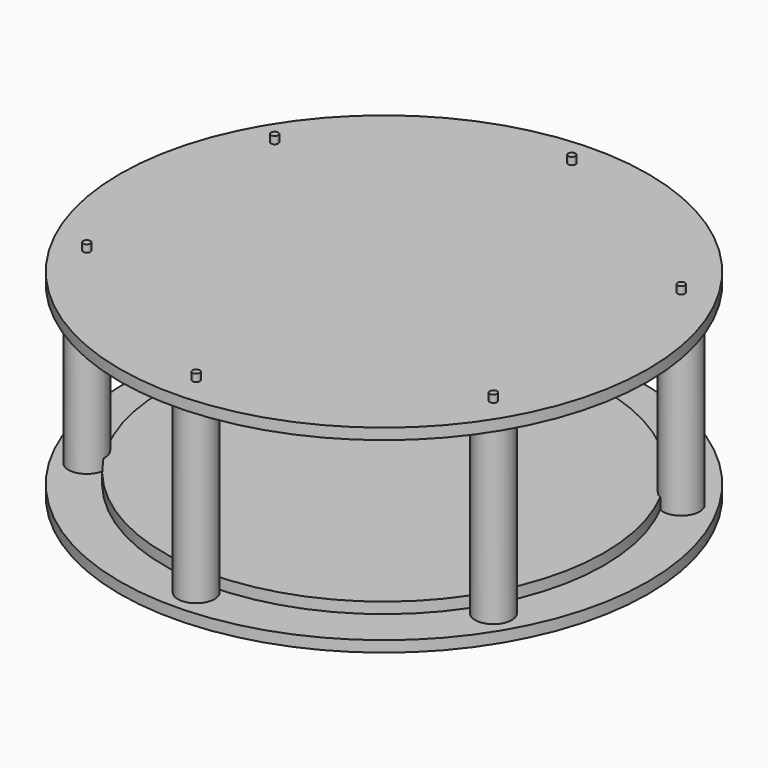
from build123d import *

# Parameters (mm, degrees)
F2_R           = 457.2
F2_R_2         = 31.75
F2_R_3         = 15.875
F2_R_4         = 6.35
F3_DEPTH       = 19.05
F4_DEPTH       = 304.8
F5_R           = 381
F6_DEPTH       = 19.05
F10_DEPTH      = 336.55
F10_DEPTH_BACK = 31.75


with BuildPart() as f3:
    # F2 (on Top) → F3 (new body)
    with BuildSketch(Plane.XY):
        Circle(F2_R)
        with Locations((-351.952724098, -203.2)):
            Circle(F2_R_2, mode=Mode.SUBTRACT)
        with Locations((0, -406.4)):
            Circle(F2_R_2, mode=Mode.SUBTRACT)
        with Locations((351.952724098, -203.2)):
            Circle(F2_R_2, mode=Mode.SUBTRACT)
        with Locations((-351.952724098, 203.2)):
            Circle(F2_R_2, mode=Mode.SUBTRACT)
        with Locations((351.952724098, 203.2)):
            Circle(F2_R_2, mode=Mode.SUBTRACT)
        with Locations((0, 406.4)):
            Circle(F2_R_2, mode=Mode.SUBTRACT)
        with Locations((351.952724098, 203.2)):
            Circle(F2_R_2)
        with Locations((351.952724098, 203.2)):
            Circle(F2_R_3, mode=Mode.SUBTRACT)
        with Locations((351.952724098, 203.2)):
            Circle(F2_R_3)
        with Locations((351.952724098, 203.2)):
            Circle(F2_R_4, mode=Mode.SUBTRACT)
        with Locations((351.952724098, -203.2)):
            Circle(F2_R_2)
        with Locations((351.952724098, -203.2)):
            Circle(F2_R_3, mode=Mode.SUBTRACT)
        with Locations((351.952724098, -203.2)):
            Circle(F2_R_3)
        with Locations((351.952724098, -203.2)):
            Circle(F2_R_4, mode=Mode.SUBTRACT)
        with Locations((0, 406.4)):
            Circle(F2_R_2)
        with Locations((0, 406.4)):
            Circle(F2_R_3, mode=Mode.SUBTRACT)
        with Locations((0, 406.4)):
            Circle(F2_R_3)
        with Locations((0, 406.4)):
            Circle(F2_R_4, mode=Mode.SUBTRACT)
        with Locations((-351.952724098, 203.2)):
            Circle(F2_R_2)
        with Locations((-351.952724098, 203.2)):
            Circle(F2_R_3, mode=Mode.SUBTRACT)
        with Locations((-351.952724098, 203.2)):
            Circle(F2_R_3)
        with Locations((-351.952724098, 203.2)):
            Circle(F2_R_4, mode=Mode.SUBTRACT)
        with Locations((-351.952724098, -203.2)):
            Circle(F2_R_2)
        with Locations((-351.952724098, -203.2)):
            Circle(F2_R_3, mode=Mode.SUBTRACT)
        with Locations((-351.952724098, -203.2)):
            Circle(F2_R_3)
        with Locations((-351.952724098, -203.2)):
            Circle(F2_R_4, mode=Mode.SUBTRACT)
        with Locations((0, -406.4)):
            Circle(F2_R_2)
        with Locations((0, -406.4)):
            Circle(F2_R_3, mode=Mode.SUBTRACT)
        with Locations((0, -406.4)):
            Circle(F2_R_3)
        with Locations((0, -406.4)):
            Circle(F2_R_4, mode=Mode.SUBTRACT)
    extrude(amount=-F3_DEPTH)


with BuildPart() as f4:
    # F2 (on Top) → F4 (new body)
    with BuildSketch(Plane.XY):
        with Locations((351.952724098, -203.2)):
            Circle(F2_R_2)
        with Locations((351.952724098, -203.2)):
            Circle(F2_R_3, mode=Mode.SUBTRACT)
    extrude(amount=F4_DEPTH)


with BuildPart() as f4b:
    # F2 (on Top) → F4, piece 2 (new body)
    with BuildSketch(Plane.XY):
        with Locations((0, -406.4)):
            Circle(F2_R_2)
        with Locations((0, -406.4)):
            Circle(F2_R_3, mode=Mode.SUBTRACT)
    extrude(amount=F4_DEPTH)


with BuildPart() as f4c:
    # F2 (on Top) → F4, piece 3 (new body)
    with BuildSketch(Plane.XY):
        with Locations((-351.952724098, -203.2)):
            Circle(F2_R_2)
        with Locations((-351.952724098, -203.2)):
            Circle(F2_R_3, mode=Mode.SUBTRACT)
    extrude(amount=F4_DEPTH)


with BuildPart() as f4d:
    # F2 (on Top) → F4, piece 4 (new body)
    with BuildSketch(Plane.XY):
        with Locations((-351.952724098, 203.2)):
            Circle(F2_R_2)
        with Locations((-351.952724098, 203.2)):
            Circle(F2_R_3, mode=Mode.SUBTRACT)
    extrude(amount=F4_DEPTH)


with BuildPart() as f4e:
    # F2 (on Top) → F4, piece 5 (new body)
    with BuildSketch(Plane.XY):
        with Locations((0, 406.4)):
            Circle(F2_R_2)
        with Locations((0, 406.4)):
            Circle(F2_R_3, mode=Mode.SUBTRACT)
    extrude(amount=F4_DEPTH)


with BuildPart() as f4f:
    # F2 (on Top) → F4, piece 6 (new body)
    with BuildSketch(Plane.XY):
        with Locations((351.952724098, 203.2)):
            Circle(F2_R_2)
        with Locations((351.952724098, 203.2)):
            Circle(F2_R_3, mode=Mode.SUBTRACT)
    extrude(amount=F4_DEPTH)


with BuildPart() as f6:
    # F5 (on face) → F6 (new body)
    with BuildSketch(Plane.XY):
        Circle(F5_R)
    extrude(amount=F6_DEPTH)


with BuildPart() as f8_1:
    # F8: instance of F3
    add(f3.part.mirror(Plane.XY.offset(152.4)))


with BuildPart() as f8_2:
    # F8: instance of F6
    add(f6.part.mirror(Plane.XY.offset(152.4)))


with BuildPart() as f4c_1:
    add(f4c.part)

    # F9: cut F6, F8_2
    add(f6.part, mode=Mode.SUBTRACT)
    add(f8_2.part, mode=Mode.SUBTRACT)


with BuildPart() as f4d_1:
    add(f4d.part)

    # F9: cut F6, F8_2
    add(f6.part, mode=Mode.SUBTRACT)
    add(f8_2.part, mode=Mode.SUBTRACT)


with BuildPart() as f4e_1:
    add(f4e.part)

    # F9: cut F6, F8_2
    add(f6.part, mode=Mode.SUBTRACT)
    add(f8_2.part, mode=Mode.SUBTRACT)


with BuildPart() as f4f_1:
    add(f4f.part)

    # F9: cut F6, F8_2
    add(f6.part, mode=Mode.SUBTRACT)
    add(f8_2.part, mode=Mode.SUBTRACT)


with BuildPart() as f4_1:
    add(f4.part)

    # F9: cut F6, F8_2
    add(f6.part, mode=Mode.SUBTRACT)
    add(f8_2.part, mode=Mode.SUBTRACT)


with BuildPart() as f4b_1:
    add(f4b.part)

    # F9: cut F6, F8_2
    add(f6.part, mode=Mode.SUBTRACT)
    add(f8_2.part, mode=Mode.SUBTRACT)


with BuildPart() as f10:
    # F2 (on Top) → F10 (new body, two sides)
    with BuildSketch(Plane.XY) as f10_sk:
        with Locations((0, 406.4)):
            Circle(F2_R_4)
    extrude(amount=F10_DEPTH)
    extrude(f10_sk.sketch, amount=-F10_DEPTH_BACK)


with BuildPart() as f10b:
    # F2 (on Top) → F10, piece 2 (new body, two sides)
    with BuildSketch(Plane.XY) as f10_2_sk:
        with Locations((-351.952724098, 203.2)):
            Circle(F2_R_4)
    extrude(amount=F10_DEPTH)
    extrude(f10_2_sk.sketch, amount=-F10_DEPTH_BACK)


with BuildPart() as f10c:
    # F2 (on Top) → F10, piece 3 (new body, two sides)
    with BuildSketch(Plane.XY) as f10_3_sk:
        with Locations((-351.952724098, -203.2)):
            Circle(F2_R_4)
    extrude(amount=F10_DEPTH)
    extrude(f10_3_sk.sketch, amount=-F10_DEPTH_BACK)


with BuildPart() as f10d:
    # F2 (on Top) → F10, piece 4 (new body, two sides)
    with BuildSketch(Plane.XY) as f10_4_sk:
        with Locations((0, -406.4)):
            Circle(F2_R_4)
    extrude(amount=F10_DEPTH)
    extrude(f10_4_sk.sketch, amount=-F10_DEPTH_BACK)


with BuildPart() as f10e:
    # F2 (on Top) → F10, piece 5 (new body, two sides)
    with BuildSketch(Plane.XY) as f10_5_sk:
        with Locations((351.952724098, -203.2)):
            Circle(F2_R_4)
    extrude(amount=F10_DEPTH)
    extrude(f10_5_sk.sketch, amount=-F10_DEPTH_BACK)


with BuildPart() as f10f:
    # F2 (on Top) → F10, piece 6 (new body, two sides)
    with BuildSketch(Plane.XY) as f10_6_sk:
        with Locations((351.952724098, 203.2)):
            Circle(F2_R_4)
    extrude(amount=F10_DEPTH)
    extrude(f10_6_sk.sketch, amount=-F10_DEPTH_BACK)


solid = Compound([f3.part, f6.part, f8_1.part, f8_2.part, f4c_1.part, f4d_1.part, f4e_1.part, f4f_1.part, f4_1.part, f4b_1.part, f10.part, f10b.part, f10c.part, f10d.part, f10e.part, f10f.part])
